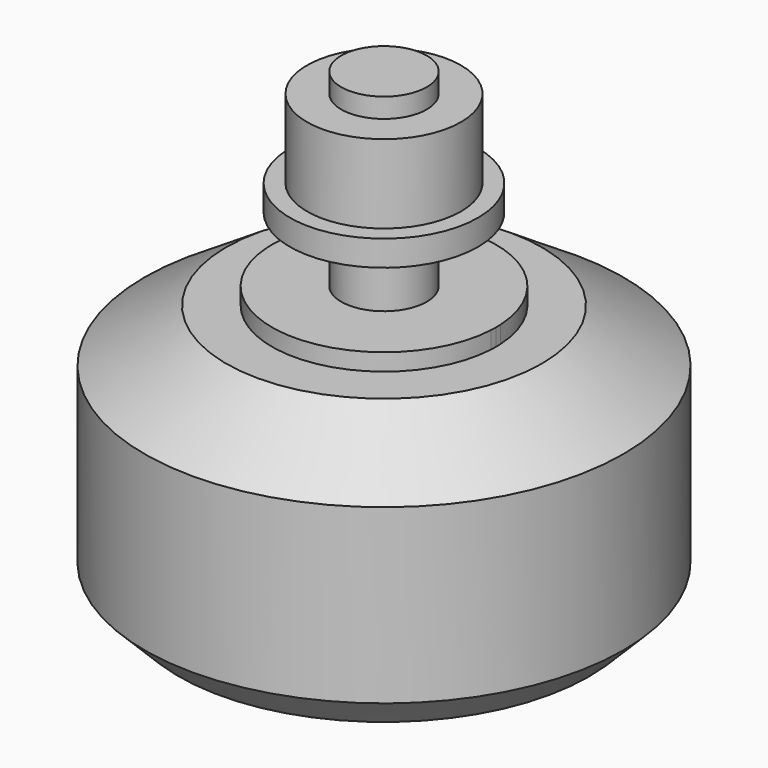
from build123d import *

# Parameters (mm, degrees)
F0_R          = 14
F1_DEPTH      = 15.2
F0_R_2        = 3.25
F0_R_3        = 2.5
F2_DEPTH      = 16.2
F3_DEPTH      = 27.25
F3_DEPTH_BACK = 2
F4_DEPTH      = 0.5
F5_SIZE2      = 4.7735813878
F5_SIZE       = 3.1
F6_SIZE2      = 2
F6_SIZE       = 2
F9_DEPTH      = 3


with BuildPart() as f1:
    # F0 (on Top) → F1 (new body)
    with BuildSketch(Plane.XY):
        Circle(F0_R)
        with BuildLine():
            ThreePointArc((1.3724636643, 8.8947368421), (6.4311742363, 6.2960303321), (8.921875, 1.1832778559))
            ThreePointArc((8.921875, 1.1832778559), (9.3477411658, 0.6584783596), (9.5, 0))
            ThreePointArc((9.5, 0), (9.3477411658, -0.6584783596), (8.921875, -1.1832778559))
            ThreePointArc((8.921875, -1.1832778559), (6.4311742363, -6.2960303321), (1.3724636643, -8.8947368421))
            ThreePointArc((1.3724636643, -8.8947368421), (1.4677696509, -9.1907230177), (1.5, -9.5))
            ThreePointArc((1.5, -9.5), (-0.3092769823, -10.9677696509), (-1.3724636643, -8.8947368421))
            ThreePointArc((-1.3724636643, -8.8947368421), (-6.4311742363, -6.2960303321), (-8.921875, -1.1832778559))
            ThreePointArc((-8.921875, -1.1832778559), (-9.5, 0), (-8.921875, 1.1832778559))
            ThreePointArc((-8.921875, 1.1832778559), (-6.4311742363, 6.2960303321), (-1.3724636643, 8.8947368421))
            ThreePointArc((-1.3724636643, 8.8947368421), (-0.3092769823, 10.9677696509), (1.5, 9.5))
            ThreePointArc((1.5, 9.5), (1.4677696509, 9.1907230177), (1.3724636643, 8.8947368421))
        make_face(mode=Mode.SUBTRACT)
        with BuildLine():
            ThreePointArc((-6.54078125, -0.3473911911), (-6.55, 0), (-6.54078125, 0.3473911911))
            ThreePointArc((-6.54078125, 0.3473911911), (-7.5031487088, 1.4153228587), (-8.921875, 1.1832778559))
            ThreePointArc((-8.921875, 1.1832778559), (-9, 0), (-8.921875, -1.1832778559))
            ThreePointArc((-8.921875, -1.1832778559), (-7.5031487088, -1.4153228587), (-6.54078125, -0.3473911911))
        make_face()
        with BuildLine():
            ThreePointArc((6.54078125, 0.3473911911), (6.5476949069, 0.1737567445), (6.55, 0))
            ThreePointArc((6.55, 0), (6.5476949069, -0.1737567445), (6.54078125, -0.3473911911))
            ThreePointArc((6.54078125, -0.3473911911), (7.5031487088, -1.4153228587), (8.921875, -1.1832778559))
            ThreePointArc((8.921875, -1.1832778559), (8.9804475111, -0.5929270613), (9, 0))
            ThreePointArc((9, 0), (8.9804475111, 0.5929270613), (8.921875, 1.1832778559))
            ThreePointArc((8.921875, 1.1832778559), (7.5031487088, 1.4153228587), (6.54078125, 0.3473911911))
        make_face()
        with BuildLine():
            ThreePointArc((-1.3724636643, -8.8947368421), (0, -9), (1.3724636643, -8.8947368421))
            ThreePointArc((1.3724636643, -8.8947368421), (0, -8), (-1.3724636643, -8.8947368421))
        make_face()
        with BuildLine():
            ThreePointArc((1.5, -9.5), (1.4677696509, -9.1907230177), (1.3724636643, -8.8947368421))
            ThreePointArc((1.3724636643, -8.8947368421), (0, -9), (-1.3724636643, -8.8947368421))
            ThreePointArc((-1.3724636643, -8.8947368421), (-0.3092769823, -10.9677696509), (1.5, -9.5))
        make_face()
        with BuildLine():
            ThreePointArc((-1.3724636643, 8.8947368421), (0, 8), (1.3724636643, 8.8947368421))
            ThreePointArc((1.3724636643, 8.8947368421), (0, 9), (-1.3724636643, 8.8947368421))
        make_face()
        with BuildLine():
            ThreePointArc((-1.3724636643, 8.8947368421), (0, 9), (1.3724636643, 8.8947368421))
            ThreePointArc((1.3724636643, 8.8947368421), (1.4677696509, 9.1907230177), (1.5, 9.5))
            ThreePointArc((1.5, 9.5), (-0.3092769823, 10.9677696509), (-1.3724636643, 8.8947368421))
        make_face()
        with BuildLine():
            ThreePointArc((-8.921875, -1.1832778559), (-9, 0), (-8.921875, 1.1832778559))
            ThreePointArc((-8.921875, 1.1832778559), (-9.5, 0), (-8.921875, -1.1832778559))
        make_face()
        with BuildLine():
            ThreePointArc((9.5, 0), (9.3477411658, 0.6584783596), (8.921875, 1.1832778559))
            ThreePointArc((8.921875, 1.1832778559), (8.9804475111, 0.5929270613), (9, 0))
            ThreePointArc((9, 0), (8.9804475111, -0.5929270613), (8.921875, -1.1832778559))
            ThreePointArc((8.921875, -1.1832778559), (9.3477411658, -0.6584783596), (9.5, 0))
        make_face()
        with BuildLine():
            ThreePointArc((-6.54078125, 0.3473911911), (0, 6.55), (6.54078125, 0.3473911911))
            ThreePointArc((6.54078125, 0.3473911911), (7.5031487088, 1.4153228587), (8.921875, 1.1832778559))
            ThreePointArc((8.921875, 1.1832778559), (6.4311742363, 6.2960303321), (1.3724636643, 8.8947368421))
            ThreePointArc((1.3724636643, 8.8947368421), (0, 8), (-1.3724636643, 8.8947368421))
            ThreePointArc((-1.3724636643, 8.8947368421), (-6.4311742363, 6.2960303321), (-8.921875, 1.1832778559))
            ThreePointArc((-8.921875, 1.1832778559), (-7.5031487088, 1.4153228587), (-6.54078125, 0.3473911911))
        make_face()
        with BuildLine():
            ThreePointArc((8.921875, -1.1832778559), (7.5031487088, -1.4153228587), (6.54078125, -0.3473911911))
            ThreePointArc((6.54078125, -0.3473911911), (0, -6.55), (-6.54078125, -0.3473911911))
            ThreePointArc((-6.54078125, -0.3473911911), (-7.5031487088, -1.4153228587), (-8.921875, -1.1832778559))
            ThreePointArc((-8.921875, -1.1832778559), (-6.4311742363, -6.2960303321), (-1.3724636643, -8.8947368421))
            ThreePointArc((-1.3724636643, -8.8947368421), (0, -8), (1.3724636643, -8.8947368421))
            ThreePointArc((1.3724636643, -8.8947368421), (6.4311742363, -6.2960303321), (8.921875, -1.1832778559))
        make_face()
    extrude(amount=F1_DEPTH)



with BuildPart() as f1b:
    # F0 (on Top) → F1, piece 2 (new body)
    with BuildSketch(Plane.XY):
        Circle(F0_R_2)
        Circle(F0_R_3, mode=Mode.SUBTRACT)
        Circle(F0_R_3)
    extrude(amount=F1_DEPTH)


with BuildPart() as f1_1:
    add(f1.part)

    add(f1b.part)  # F2 merges F1b
    # F0 (on Top) → F2 (join)
    with BuildSketch(Plane.XY):
        with BuildLine():
            ThreePointArc((6.54078125, -0.3473911911), (6.5, 0), (6.54078125, 0.3473911911))
            ThreePointArc((6.54078125, 0.3473911911), (0, 6.55), (-6.54078125, 0.3473911911))
            ThreePointArc((-6.54078125, 0.3473911911), (-6.5102301982, 0.1748883572), (-6.5, 0))
            ThreePointArc((-6.5, 0), (-6.5102301982, -0.1748883572), (-6.54078125, -0.3473911911))
            ThreePointArc((-6.54078125, -0.3473911911), (0, -6.55), (6.54078125, -0.3473911911))
        make_face()
        Circle(F0_R_2, mode=Mode.SUBTRACT)
        with BuildLine():
            ThreePointArc((-6.5, 0), (-6.5102301982, 0.1748883572), (-6.54078125, 0.3473911911))
            ThreePointArc((-6.54078125, 0.3473911911), (-6.55, 0), (-6.54078125, -0.3473911911))
            ThreePointArc((-6.54078125, -0.3473911911), (-6.5102301982, -0.1748883572), (-6.5, 0))
        make_face()
        with BuildLine():
            ThreePointArc((6.54078125, -0.3473911911), (6.5476949069, -0.1737567445), (6.55, 0))
            ThreePointArc((6.55, 0), (6.5476949069, 0.1737567445), (6.54078125, 0.3473911911))
            ThreePointArc((6.54078125, 0.3473911911), (6.5, 0), (6.54078125, -0.3473911911))
        make_face()
        Circle(F0_R_2)
        Circle(F0_R_3, mode=Mode.SUBTRACT)
    extrude(amount=F2_DEPTH)

    # F0 (on Top) → F3 (join, two sides)
    with BuildSketch(Plane.XY) as f3_sk:
        Circle(F0_R_3)
    extrude(amount=F3_DEPTH)
    extrude(f3_sk.sketch, amount=-F3_DEPTH_BACK)

    # F0 (on Top) → F4 (join)
    with BuildSketch(Plane.XY):
        Circle(F0_R_2)
        Circle(F0_R_3, mode=Mode.SUBTRACT)
    extrude(amount=-F4_DEPTH)

    # F5
    f5_edges = [f1_1.edges().sort_by_distance(p)[0] for p in [
        (-14, 0, 15.2),
    ]]
    f5_side = f1_1.faces().sort_by_distance((-14, 0, 7.6))[0]
    chamfer(f5_edges, length=F5_SIZE, length2=F5_SIZE2, reference=f5_side)

    # F6
    f6_edges = [f1_1.edges().sort_by_distance(p)[0] for p in [
        (-14, 0, 0),
    ]]
    chamfer(f6_edges, length=F6_SIZE, length2=F6_SIZE2)

    # F0 (on Top) → F9 (cut)
    with BuildSketch(Plane.XY):
        with BuildLine():
            ThreePointArc((-6.5, 0), (-6.5102301982, 0.1748883572), (-6.54078125, 0.3473911911))
            ThreePointArc((-6.54078125, 0.3473911911), (-6.55, 0), (-6.54078125, -0.3473911911))
            ThreePointArc((-6.54078125, -0.3473911911), (-6.5102301982, -0.1748883572), (-6.5, 0))
        make_face()
        with BuildLine():
            ThreePointArc((-6.54078125, -0.3473911911), (-6.55, 0), (-6.54078125, 0.3473911911))
            ThreePointArc((-6.54078125, 0.3473911911), (-7.5031487088, 1.4153228587), (-8.921875, 1.1832778559))
            ThreePointArc((-8.921875, 1.1832778559), (-9, 0), (-8.921875, -1.1832778559))
            ThreePointArc((-8.921875, -1.1832778559), (-7.5031487088, -1.4153228587), (-6.54078125, -0.3473911911))
        make_face()
        with BuildLine():
            ThreePointArc((-1.3724636643, -8.8947368421), (0, -9), (1.3724636643, -8.8947368421))
            ThreePointArc((1.3724636643, -8.8947368421), (0, -8), (-1.3724636643, -8.8947368421))
        make_face()
        with BuildLine():
            ThreePointArc((1.5, -9.5), (1.4677696509, -9.1907230177), (1.3724636643, -8.8947368421))
            ThreePointArc((1.3724636643, -8.8947368421), (0, -9), (-1.3724636643, -8.8947368421))
            ThreePointArc((-1.3724636643, -8.8947368421), (-0.3092769823, -10.9677696509), (1.5, -9.5))
        make_face()
        with BuildLine():
            ThreePointArc((6.54078125, 0.3473911911), (6.5476949069, 0.1737567445), (6.55, 0))
            ThreePointArc((6.55, 0), (6.5476949069, -0.1737567445), (6.54078125, -0.3473911911))
            ThreePointArc((6.54078125, -0.3473911911), (7.5031487088, -1.4153228587), (8.921875, -1.1832778559))
            ThreePointArc((8.921875, -1.1832778559), (8.9804475111, -0.5929270613), (9, 0))
            ThreePointArc((9, 0), (8.9804475111, 0.5929270613), (8.921875, 1.1832778559))
            ThreePointArc((8.921875, 1.1832778559), (7.5031487088, 1.4153228587), (6.54078125, 0.3473911911))
        make_face()
        with BuildLine():
            ThreePointArc((6.54078125, -0.3473911911), (6.5476949069, -0.1737567445), (6.55, 0))
            ThreePointArc((6.55, 0), (6.5476949069, 0.1737567445), (6.54078125, 0.3473911911))
            ThreePointArc((6.54078125, 0.3473911911), (6.5, 0), (6.54078125, -0.3473911911))
        make_face()
        with BuildLine():
            ThreePointArc((-1.3724636643, 8.8947368421), (0, 8), (1.3724636643, 8.8947368421))
            ThreePointArc((1.3724636643, 8.8947368421), (0, 9), (-1.3724636643, 8.8947368421))
        make_face()
        with BuildLine():
            ThreePointArc((-1.3724636643, 8.8947368421), (0, 9), (1.3724636643, 8.8947368421))
            ThreePointArc((1.3724636643, 8.8947368421), (1.4677696509, 9.1907230177), (1.5, 9.5))
            ThreePointArc((1.5, 9.5), (-0.3092769823, 10.9677696509), (-1.3724636643, 8.8947368421))
        make_face()
    extrude(amount=F9_DEPTH, mode=Mode.SUBTRACT)


with BuildPart() as f8:
    # F7 (on Front) → F8 (revolve)
    with BuildSketch(Plane.XZ):
        Polygon((2.5, 26.1), (2.5, 20), (5.5, 20), (5.5, 21.5), (4.5, 21.5), (4.5, 26.1), align=None)
    revolve(axis=Axis((0, 0, 24.1000112146), (0, 0, 1)))


solid = Compound([f1_1.part, f8.part])
